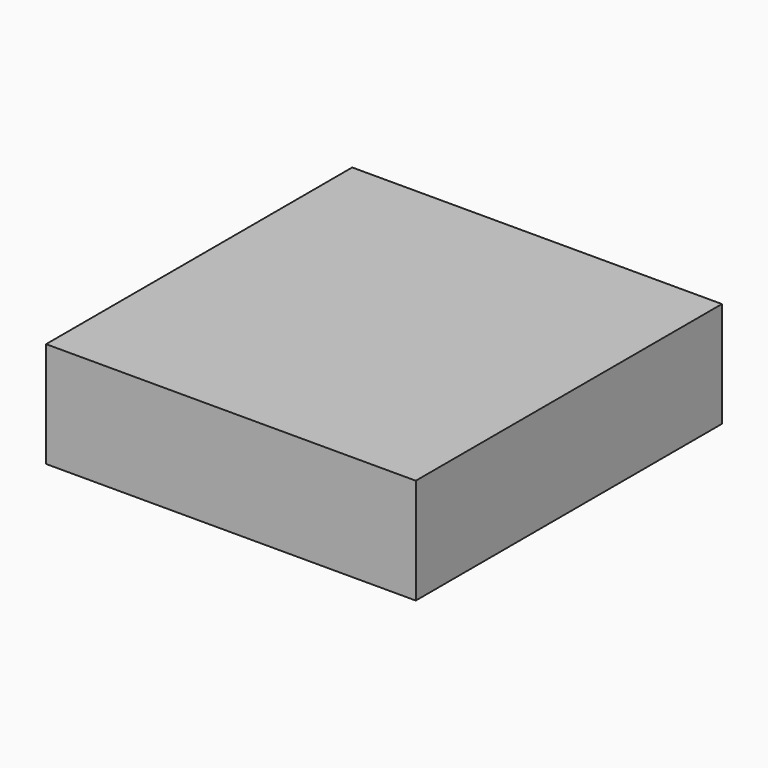
from build123d import *

# Parameters (mm, degrees)
F0_R          = 41.632811
F0_R_2        = 34.178554
F1_DEPTH      = 25.4
F2_DEPTH      = 5.08
F3_W          = 97.903654
F3_H          = 101.333394
F3_R          = 41.632811
F3_R_2        = 34.178554
F4_DEPTH      = 2.54
F4_DEPTH_BACK = 25.4


with BuildPart() as f1:
    # F0 (on Top) → F1 (new body)
    with BuildSketch(Plane.XY):
        Circle(F0_R)
        Circle(F0_R_2, mode=Mode.SUBTRACT)
    extrude(amount=F1_DEPTH)

    # F0 (on Top) → F2 (join)
    with BuildSketch(Plane.XY):
        Circle(F0_R)
        Circle(F0_R_2, mode=Mode.SUBTRACT)
        Circle(F0_R_2)
    extrude(amount=-F2_DEPTH)


with BuildPart() as f4:
    # F3 (on face) → F4 (new body, two sides)
    with BuildSketch(Plane.XY.offset(25.4)) as f4_sk:
        Rectangle(F3_W, F3_H)
        Circle(F3_R, mode=Mode.SUBTRACT)
        Circle(F3_R)
        Circle(F3_R_2, mode=Mode.SUBTRACT)
        Circle(F3_R_2)
    extrude(amount=F4_DEPTH)
    extrude(f4_sk.sketch, amount=-F4_DEPTH_BACK)

    # F5: cut F1
    add(f1.part, mode=Mode.SUBTRACT)


solid = Compound([f1.part, f4.part])
